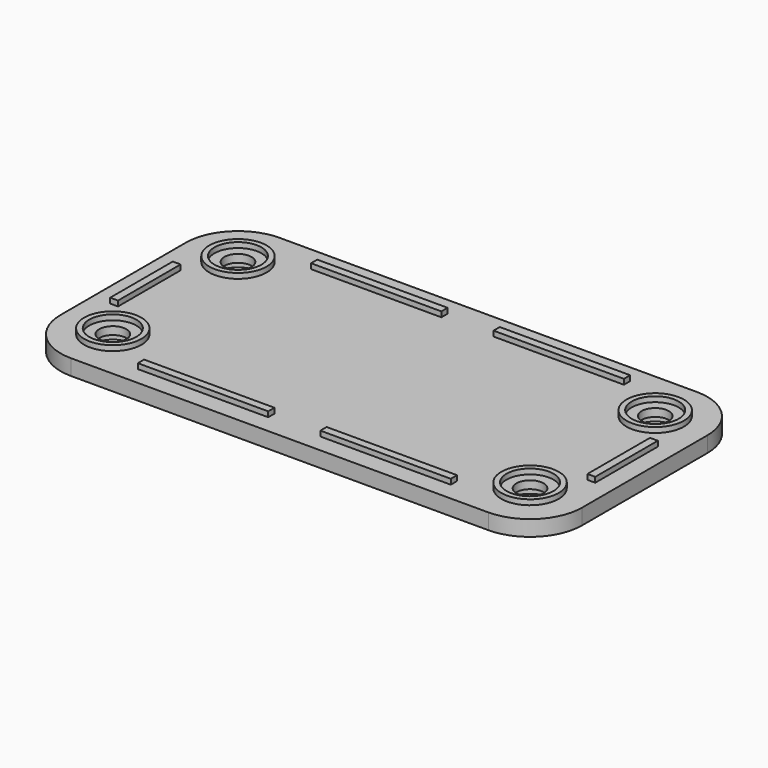
from build123d import *

# Parameters (mm, degrees)
PAD_DEPTH       = 3
SKETCH001_R     = 5.5
SKETCH001_R_2   = 4.5
SKETCH001_W     = 25
SKETCH001_H     = 1.5
SKETCH001_W_2   = 1.5
SKETCH001_H_2   = 15
PAD001_DEPTH    = 1
SKETCH002_R     = 2.6
POCKET_DEPTH    = 227.75086
SKETCH003_R     = 4
POCKET001_DEPTH = 1.5


with BuildPart() as part:
    # Sketch → Pad (new body)
    with BuildSketch(Plane.XY):
        with BuildLine():
            ThreePointArc((-40, 25), (-47.071068, 22.071068), (-50, 15))
            Line((-50, -15), (-50, 15))
            ThreePointArc((-50, -15), (-47.071068, -22.071068), (-40, -25))
            Line((40, -25), (-40, -25))
            ThreePointArc((40, -25), (47.071068, -22.071068), (50, -15))
            Line((50, 15), (50, -15))
            ThreePointArc((50, 15), (47.071068, 22.071068), (40, 25))
            Line((-40, 25), (40, 25))
        make_face()
    extrude(amount=PAD_DEPTH)

    # Sketch001 (on Face10 of Pad) → Pad001 (join)
    with BuildSketch(Plane.XY.offset(3)):
        with Locations((-40, 15)):
            Circle(SKETCH001_R)
        with Locations((-40, 15)):
            Circle(SKETCH001_R_2, mode=Mode.SUBTRACT)
        with Locations((-40, -15)):
            Circle(SKETCH001_R)
        with Locations((-40, -15)):
            Circle(SKETCH001_R_2, mode=Mode.SUBTRACT)
        with Locations((-17.5, 20.75)):
            Rectangle(SKETCH001_W, SKETCH001_H)
        with Locations((-17.5, -20.75)):
            Rectangle(SKETCH001_W, SKETCH001_H)
        with Locations((-45.75, 0)):
            Rectangle(SKETCH001_W_2, SKETCH001_H_2)
    pad001 = extrude(amount=PAD001_DEPTH)

    # Sketch002 (on Face4 of Pad001) → Pocket (cut, through all)
    with BuildSketch(Plane(origin=(0, 0, 0), x_dir=(1, 0, 0), z_dir=(0, 0, -1))):
        with Locations((-40, 15)):
            Circle(SKETCH002_R)
        with Locations((-40, -15)):
            Circle(SKETCH002_R)
    pocket = extrude(amount=-POCKET_DEPTH, mode=Mode.SUBTRACT)

    # Sketch003 (on Face4 of Pocket) → Pocket001 (cut)
    with BuildSketch(Plane(origin=(0, 0, 0), x_dir=(1, 0, 0), z_dir=(0, 0, -1))):
        with Locations((-40, 15)):
            Circle(SKETCH003_R)
        with Locations((-40, -15)):
            Circle(SKETCH003_R)
    pocket001 = extrude(amount=-POCKET001_DEPTH, mode=Mode.SUBTRACT)

    # Mirrored: Pad001, Pocket, Pocket001 across Sketch001 V_Axis
    add(pad001.mirror(Plane(origin=(0, 0, 3), x_dir=(0, 0, 1), z_dir=(1, 0, 0))))
    add(pocket.mirror(Plane(origin=(0, 0, 3), x_dir=(0, 0, 1), z_dir=(1, 0, 0))), mode=Mode.SUBTRACT)
    add(pocket001.mirror(Plane(origin=(0, 0, 3), x_dir=(0, 0, 1), z_dir=(1, 0, 0))), mode=Mode.SUBTRACT)


solid = part.part
